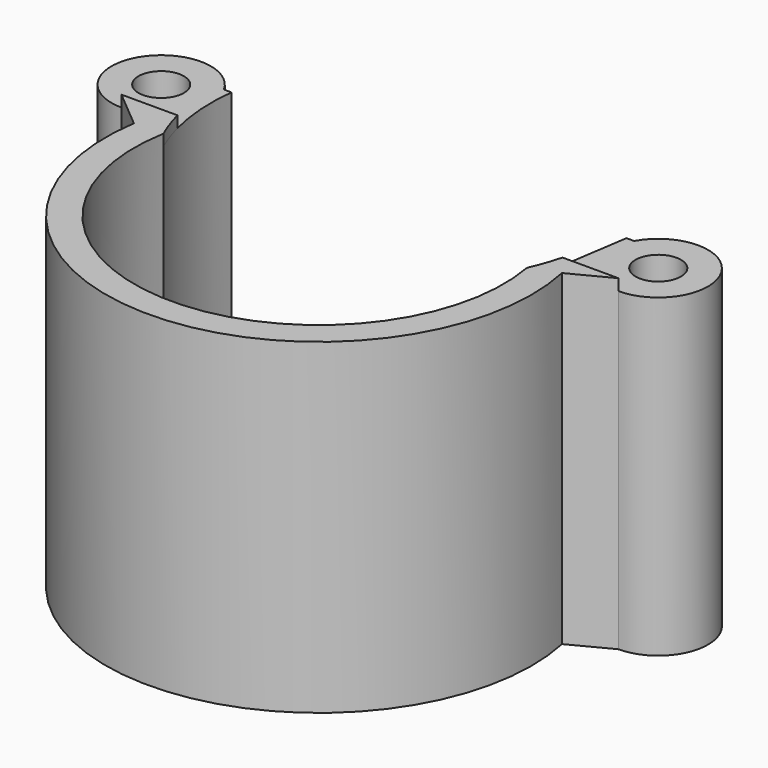
from build123d import *

# Parameters (mm, degrees)
SKETCH_R     = 1.6
PAD_DEPTH    = 4
SKETCH002_R  = 1.6
PAD001_DEPTH = 18.2
PAD002_DEPTH = 0.8


with BuildPart() as part:
    # Sketch → Pad (new body)
    with BuildSketch(Plane.XY):
        with BuildLine():
            ThreePointArc((-14.43353, 1.687235), (-20.512916, 1.781106), (-17.5, -3.5))
            Line((-17.5, -3.5), (-14.828962, -5.741267))
            ThreePointArc((-14.828962, -5.741267), (0.397332, -22.994737), (14.688532, -4.959109))
            Line((14.688532, -4.959109), (17.5, -3.5))
            ThreePointArc((17.5, -3.5), (20.51628, 1.775403), (14.439936, 1.698825))
            Line((13.896546, 1.698825), (14.439936, 1.698825))
            ThreePointArc((13.896546, 1.698825), (-0.005838, 13.999999), (-13.897958, 1.687235))
            Line((-14.43353, 1.687235), (-13.897958, 1.687235))
        make_face()
        with Locations((-17.5, 0)):
            Circle(SKETCH_R, mode=Mode.SUBTRACT)
        with Locations((17.5, 0)):
            Circle(SKETCH_R, mode=Mode.SUBTRACT)
    extrude(amount=PAD_DEPTH)

    # Sketch002 (on Face12 of Pad) → Pad001 (join)
    with BuildSketch(Plane.XY.offset(4)):
        with BuildLine():
            ThreePointArc((-14.43353, 1.687235), (-20.512916, 1.781106), (-17.5, -3.5))
            Line((-17.5, -3.5), (-14.828962, -5.741267))
            ThreePointArc((-14.828962, -5.741267), (0.397332, -22.994737), (14.688532, -4.959109))
            Line((14.688532, -4.959109), (17.5, -3.5))
            ThreePointArc((17.5, -3.5), (20.51628, 1.775403), (14.439936, 1.698825))
            Line((13.896546, 1.698825), (14.439936, 1.698825))
            ThreePointArc((12.792668, -5.6875), (13.846226, -2.069304), (13.896546, 1.698825))
            ThreePointArc((-12.792668, -5.6875), (0, -21), (12.792668, -5.6875))
            ThreePointArc((-13.897958, 1.687235), (-13.845362, -2.075078), (-12.792668, -5.6875))
            Line((-14.43353, 1.687235), (-13.897958, 1.687235))
        make_face()
        with Locations((-17.5, 0)):
            Circle(SKETCH002_R, mode=Mode.SUBTRACT)
        with Locations((17.5, 0)):
            Circle(SKETCH002_R, mode=Mode.SUBTRACT)
    extrude(amount=PAD001_DEPTH)

    # Sketch003 (on Face15 of Pad001) → Pad002 (join)
    with BuildSketch(Plane.XY.offset(22.2)):
        with BuildLine():
            Line((-17.5, -3.5), (-13.555442, -3.5))
            ThreePointArc((-13.555442, -3.5), (-13.21938, -4.609555), (-12.792668, -5.6875))
            ThreePointArc((-12.792668, -5.6875), (0, -21), (12.792668, -5.6875))
            ThreePointArc((12.792668, -5.6875), (13.21938, -4.609555), (13.555442, -3.5))
            Line((17.5, -3.5), (13.555442, -3.5))
            Line((17.5, -3.5), (14.688532, -4.959109))
            ThreePointArc((-14.828962, -5.741267), (0.397332, -22.994737), (14.688532, -4.959109))
            Line((-17.5, -3.5), (-14.828962, -5.741267))
        make_face()
    extrude(amount=PAD002_DEPTH)


solid = part.part
